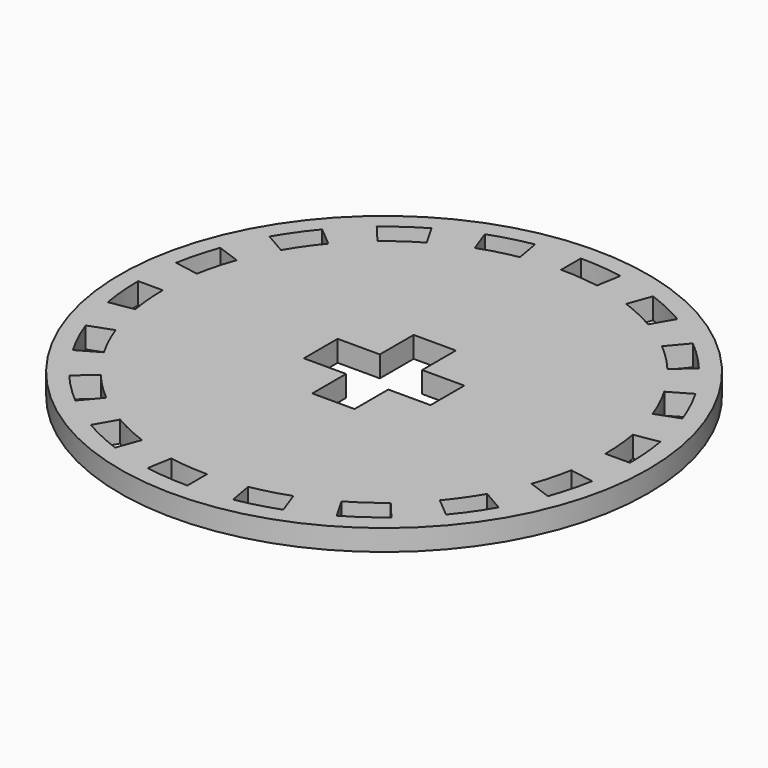
from build123d import *

# Parameters (mm, degrees)
F0_R     = 50
F1_DEPTH = 10
F2_R     = 125
F2_R_2   = 40.44952
F3_DEPTH = 10
F5_DEPTH = 25


with BuildPart() as f1:
    # F0 (on Top) → F1 (new body)
    with BuildSketch(Plane.XY):
        Circle(F0_R)
        Polygon((-10, 30), (0, 30), (10, 30), (10, 10), (30, 10), (30, 0), (30, -10), (10, -10), (10, -30), (0, -30), (-10, -30), (-10, -10), (-30, -10), (-30, 0), (-30, 10), (-10, 10), align=None, mode=Mode.SUBTRACT)
    extrude(amount=F1_DEPTH)

    # F2 (on face) → F3 (join)
    with BuildSketch(Plane.XY.offset(10)):
        Circle(F2_R)
        Circle(F2_R_2, mode=Mode.SUBTRACT)
    extrude(amount=-F3_DEPTH)

    # F4 (on face) → F5 (cut)
    with BuildSketch(Plane.XY.offset(10)):
        with BuildLine():
            Line((0, 116.456337), (0, 104.802647))
            ThreePointArc((0, 104.802647), (9.134153, 104.403842), (18.198789, 103.21046))
            Line((18.198789, 103.21046), (20.222431, 114.687104))
            ThreePointArc((20.222431, 114.687104), (10.149839, 116.013186), (0, 116.456337))
        make_face()
        with BuildLine():
            ThreePointArc((-35.844616, 98.482274), (-27.124921, 101.231584), (-18.198789, 103.21046))
            Line((-18.198789, 103.21046), (-20.222431, 114.687104))
            ThreePointArc((-20.222431, 114.687104), (-30.141118, 112.488184), (-39.830413, 109.433161))
            Line((-39.830413, 109.433161), (-35.844616, 98.482274))
        make_face()
        with BuildLine():
            ThreePointArc((-67.365843, 80.283486), (-60.112329, 85.849303), (-52.401324, 90.761755))
            Line((-52.401324, 90.761755), (-58.228169, 100.854147))
            ThreePointArc((-58.228169, 100.854147), (-66.796611, 95.395447), (-74.856691, 89.21073))
            Line((-74.856691, 89.21073), (-67.365843, 80.283486))
        make_face()
        with BuildLine():
            ThreePointArc((-90.761755, 52.401324), (-85.849303, 60.112329), (-80.283486, 67.365843))
            Line((-80.283486, 67.365843), (-89.21073, 74.856691))
            ThreePointArc((-89.21073, 74.856691), (-95.395447, 66.796611), (-100.854147, 58.228169))
            Line((-100.854147, 58.228169), (-90.761755, 52.401324))
        make_face()
        with BuildLine():
            ThreePointArc((-103.21046, 18.198789), (-101.231584, 27.124921), (-98.482274, 35.844616))
            Line((-98.482274, 35.844616), (-109.433161, 39.830413))
            ThreePointArc((-109.433161, 39.830413), (-112.488184, 30.141118), (-114.687104, 20.222431))
            Line((-114.687104, 20.222431), (-103.21046, 18.198789))
        make_face()
        with BuildLine():
            ThreePointArc((-103.21046, -18.198789), (-104.403842, -9.134153), (-104.802647, 0))
            Line((-104.802647, 0), (-116.456337, 0))
            ThreePointArc((-116.456337, 0), (-116.013186, -10.149839), (-114.687104, -20.222431))
            Line((-114.687104, -20.222431), (-103.21046, -18.198789))
        make_face()
        with BuildLine():
            ThreePointArc((-90.761755, -52.401324), (-94.983455, -44.291513), (-98.482274, -35.844616))
            Line((-98.482274, -35.844616), (-109.433161, -39.830413))
            ThreePointArc((-109.433161, -39.830413), (-105.545285, -49.216575), (-100.854147, -58.228169))
            Line((-100.854147, -58.228169), (-90.761755, -52.401324))
        make_face()
        with BuildLine():
            ThreePointArc((-67.365843, -80.283486), (-74.106663, -74.106663), (-80.283486, -67.365843))
            Line((-80.283486, -67.365843), (-89.21073, -74.856691))
            ThreePointArc((-89.21073, -74.856691), (-82.347066, -82.347066), (-74.856691, -89.21073))
            Line((-74.856691, -89.21073), (-67.365843, -80.283486))
        make_face()
        with BuildLine():
            ThreePointArc((-35.844616, -98.482274), (-44.291513, -94.983455), (-52.401324, -90.761755))
            Line((-52.401324, -90.761755), (-58.228169, -100.854147))
            ThreePointArc((-58.228169, -100.854147), (-49.216575, -105.545285), (-39.830413, -109.433161))
            Line((-39.830413, -109.433161), (-35.844616, -98.482274))
        make_face()
        with BuildLine():
            ThreePointArc((0, -104.802647), (-9.134153, -104.403842), (-18.198789, -103.21046))
            Line((-18.198789, -103.21046), (-20.222431, -114.687104))
            ThreePointArc((-20.222431, -114.687104), (-10.149839, -116.013186), (0, -116.456337))
            Line((0, -116.456337), (0, -104.802647))
        make_face()
        with BuildLine():
            ThreePointArc((35.844616, -98.482274), (27.124921, -101.231584), (18.198789, -103.21046))
            Line((18.198789, -103.21046), (20.222431, -114.687104))
            ThreePointArc((20.222431, -114.687104), (30.141118, -112.488184), (39.830413, -109.433161))
            Line((39.830413, -109.433161), (35.844616, -98.482274))
        make_face()
        with BuildLine():
            ThreePointArc((67.365843, -80.283486), (60.112329, -85.849303), (52.401324, -90.761755))
            Line((52.401324, -90.761755), (58.228169, -100.854147))
            ThreePointArc((58.228169, -100.854147), (66.796611, -95.395447), (74.856691, -89.21073))
            Line((74.856691, -89.21073), (67.365843, -80.283486))
        make_face()
        with BuildLine():
            ThreePointArc((90.761755, -52.401324), (85.849303, -60.112329), (80.283486, -67.365843))
            Line((80.283486, -67.365843), (89.21073, -74.856691))
            ThreePointArc((89.21073, -74.856691), (95.395447, -66.796611), (100.854147, -58.228169))
            Line((100.854147, -58.228169), (90.761755, -52.401324))
        make_face()
        with BuildLine():
            ThreePointArc((103.21046, -18.198789), (101.231584, -27.124921), (98.482274, -35.844616))
            Line((98.482274, -35.844616), (109.433161, -39.830413))
            ThreePointArc((109.433161, -39.830413), (112.488184, -30.141118), (114.687104, -20.222431))
            Line((114.687104, -20.222431), (103.21046, -18.198789))
        make_face()
        with BuildLine():
            ThreePointArc((103.21046, 18.198789), (104.403842, 9.134153), (104.802647, 0))
            Line((104.802647, 0), (116.456337, 0))
            ThreePointArc((116.456337, 0), (116.013186, 10.149839), (114.687104, 20.222431))
            Line((114.687104, 20.222431), (103.21046, 18.198789))
        make_face()
        with BuildLine():
            ThreePointArc((90.761755, 52.401324), (94.983455, 44.291513), (98.482274, 35.844616))
            Line((98.482274, 35.844616), (109.433161, 39.830413))
            ThreePointArc((109.433161, 39.830413), (105.545285, 49.216575), (100.854147, 58.228169))
            Line((100.854147, 58.228169), (90.761755, 52.401324))
        make_face()
        with BuildLine():
            ThreePointArc((67.365843, 80.283486), (74.106663, 74.106663), (80.283486, 67.365843))
            Line((80.283486, 67.365843), (89.21073, 74.856691))
            ThreePointArc((89.21073, 74.856691), (82.347066, 82.347066), (74.856691, 89.21073))
            Line((74.856691, 89.21073), (67.365843, 80.283486))
        make_face()
        with BuildLine():
            ThreePointArc((35.844616, 98.482274), (44.291513, 94.983455), (52.401324, 90.761755))
            Line((52.401324, 90.761755), (58.228169, 100.854147))
            ThreePointArc((58.228169, 100.854147), (49.216575, 105.545285), (39.830413, 109.433161))
            Line((39.830413, 109.433161), (35.844616, 98.482274))
        make_face()
    extrude(amount=-F5_DEPTH, mode=Mode.SUBTRACT)


solid = f1.part
